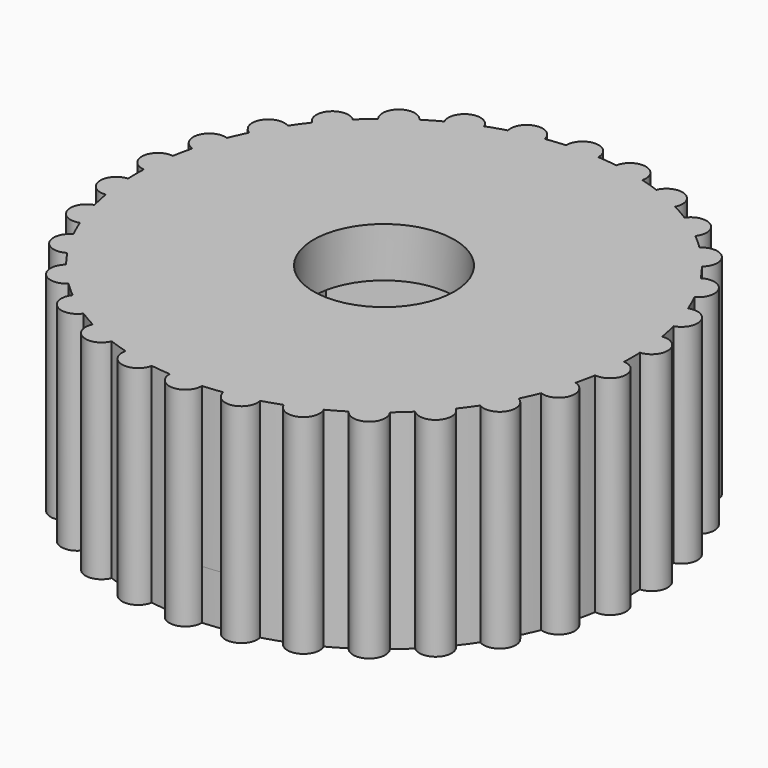
from build123d import *

# Parameters (mm, degrees)
F0_R     = 4.25
F1_DEPTH = 3
F2_R     = 15
F3_DEPTH = 6.6
F4_R     = 15
F5_DEPTH = 3
F6_DEPTH = 12.6
F7_COUNT = 30
F8_DEPTH = 25


with BuildPart() as f1:
    # F0 (on Top) → F1 (new body)
    with BuildSketch(Plane.XY):
        with BuildLine():
            ThreePointArc((0.9718013796, -14.9684869669), (10.9447937553, -10.2572652132), (15, 0))
            ThreePointArc((15, 0), (-10.2572652132, 10.9447937553), (-0.9718013796, -14.9684869669))
            ThreePointArc((-0.9718013796, -14.9684869669), (0, -15), (0.9718013796, -14.9684869669))
        make_face()
        Polygon((0, 7.5055534995), (6.5, 3.7527767497), (6.5, -3.7527767497), (0, -7.5055534995), (-6.5, -3.7527767497), (-6.5, 3.7527767497), align=None, mode=Mode.SUBTRACT)
        Polygon((6.5, -3.7527767497), (6.5, 3.7527767497), (0, 7.5055534995), (-6.5, 3.7527767497), (-6.5, -3.7527767497), (0, -7.5055534995), align=None)
        Circle(F0_R, mode=Mode.SUBTRACT)
        Circle(F0_R)
    extrude(amount=F1_DEPTH)

    # F2 (on face) → F3 (join)
    with BuildSketch(Plane.XY.offset(3)):
        Circle(F2_R)
        Polygon((-6.5, -3.7527767497), (-6.5, 3.7527767497), (0, 7.5055534995), (6.5, 3.7527767497), (6.5, -3.7527767497), (0, -7.5055534995), align=None, mode=Mode.SUBTRACT)
    extrude(amount=F3_DEPTH)

    # F4 (on face) → F5 (join)
    with BuildSketch(Plane.XY.offset(9.6)):
        Circle(F4_R)
        Polygon((6.5, -3.7527767497), (0, -7.5055534995), (-6.5, -3.7527767497), (-6.5, 3.7527767497), (0, 7.5055534995), (6.5, 3.7527767497), align=None, mode=Mode.SUBTRACT)
        Polygon((-6.5, -3.7527767497), (0, -7.5055534995), (6.5, -3.7527767497), (6.5, 3.7527767497), (0, 7.5055534995), (-6.5, 3.7527767497), align=None)
    extrude(amount=F5_DEPTH)



with BuildPart() as f6:
    # F0 (on Top) → F6 (new body, through all)
    with BuildSketch(Plane.XY):
        with BuildLine():
            ThreePointArc((0.9718013796, -14.9684869669), (0, -15), (-0.9718013796, -14.9684869669))
            ThreePointArc((-0.9718013796, -14.9684869669), (0, -15.9723121888), (0.9718013796, -14.9684869669))
        make_face()
    extrude(amount=F6_DEPTH)


with BuildPart() as f1_1:
    add(f1.part)

    add(f6.part)  # F7 merges F6
    # F7: F6 ×30 about axis
    f7_axis = Axis((0, 0, 0), (0, 0, 1))
    for i in range(1, F7_COUNT):
        add(f6.part.rotate(f7_axis, i * 360 / F7_COUNT))

    # F0 (on Top) → F8 (cut)
    with BuildSketch(Plane.XY):
        Circle(F0_R)
    extrude(amount=F8_DEPTH, mode=Mode.SUBTRACT)


solid = f1_1.part
